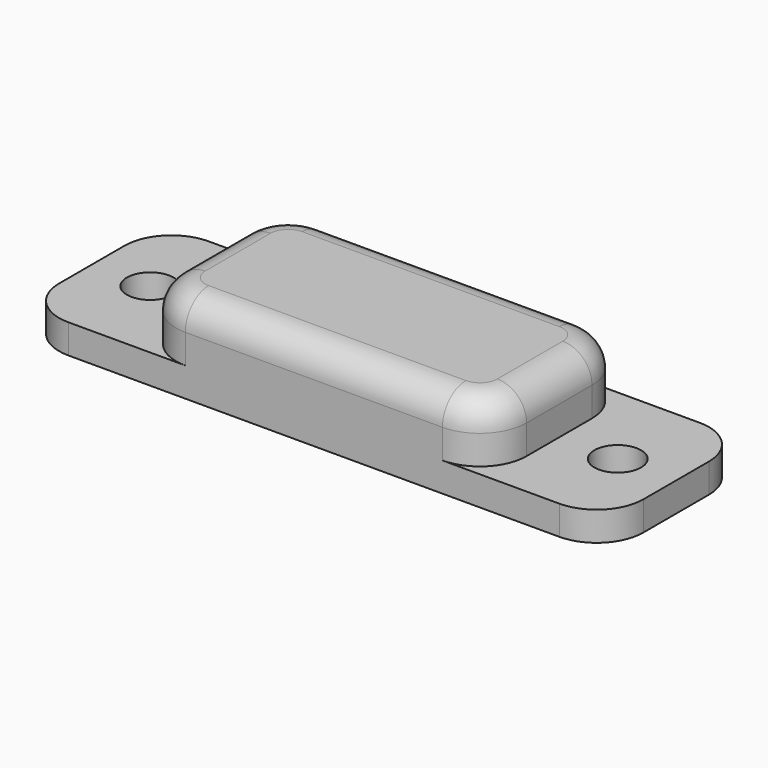
from build123d import *

# Parameters (mm, degrees)
F1_DEPTH = 19.05
F2_R     = 2.54
F3_DEPTH = 25.4
F4_R     = 5.08
F5_R     = 3.175
F6_W     = 25.4
F6_H     = 12.7
F7_DEPTH = 9.017


with BuildPart() as f1:
    # F0 (on Front) → F1 (new body)
    with BuildSketch(Plane.XZ):
        Polygon((-12.7, 0), (0, 0), (12.7, 0), (31.75, 0), (31.75, 3.175), (19.05, 3.175), (19.05, 9.525), (-19.05, 9.525), (-19.05, 3.175), (-31.75, 3.175), (-31.75, 0), align=None)
    extrude(amount=F1_DEPTH)

    # F2 (on face) → F3 (cut)
    with BuildSketch(Plane(origin=(0, 0, 0), x_dir=(1, 0, 0), z_dir=(0, 0, -1))):
        with Locations((-25.4, 9.525)):
            Circle(F2_R)
        with Locations((25.4, 9.525)):
            Circle(F2_R)
    extrude(amount=-F3_DEPTH, mode=Mode.SUBTRACT)

    # F4
    f4_edges = [f1.edges().sort_by_distance(p)[0] for p in [
        (-31.75, -19.05, 1.5875),
        (31.75, -19.05, 1.5875),
        (31.75, 0, 1.5875),
        (-31.75, 0, 1.5875),
        (19.05, 0, 6.35),
        (-19.05, 0, 6.35),
        (19.05, -19.05, 6.35),
        (-19.05, -19.05, 6.35),
    ]]
    fillet(f4_edges, radius=F4_R)

    # F5
    f5_edges = [f1.edges().sort_by_distance(p)[0] for p in [
        (-17.562102, -17.562102, 9.525),
    ]]
    fillet(f5_edges, radius=F5_R)

    # F6 (on face) → F7 (cut)
    with BuildSketch(Plane(origin=(0, 0, 0), x_dir=(1, 0, 0), z_dir=(0, 0, -1))):
        with Locations((0, 9.525)):
            Rectangle(F6_W, F6_H)
    extrude(amount=-F7_DEPTH, mode=Mode.SUBTRACT)


solid = f1.part
